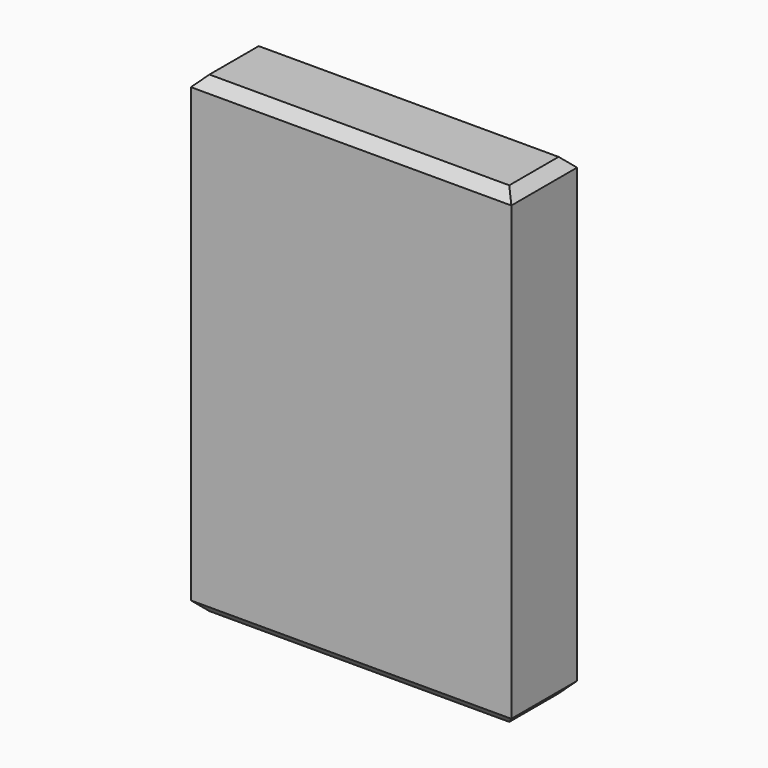
from build123d import *

# Parameters (mm, degrees)
F1_DEPTH = 4
F2_SIZE  = 0.5


with BuildPart() as f1:
    # F0 (on Front) → F1 (new body)
    with BuildSketch(Plane.XZ):
        Polygon((0, 11.5), (-7.8, 11.5), (-7.8, 0), (-7.8, -11.5), (0, -11.5), (7.8, -11.5), (7.8, 0), (7.8, 11.5), align=None)
    extrude(amount=-F1_DEPTH)

    # F2
    f2_edges = [f1.edges().sort_by_distance(p)[0] for p in [
        (-7.8, 2, 11.5),
        (0, 0, 11.5),
        (7.8, 2, 11.5),
        (0, 4, 11.5),
        (0, 0, -11.5),
        (-7.8, 2, -11.5),
        (7.8, 2, -11.5),
        (0, 4, -11.5),
    ]]
    chamfer(f2_edges, length=F2_SIZE)


solid = f1.part
